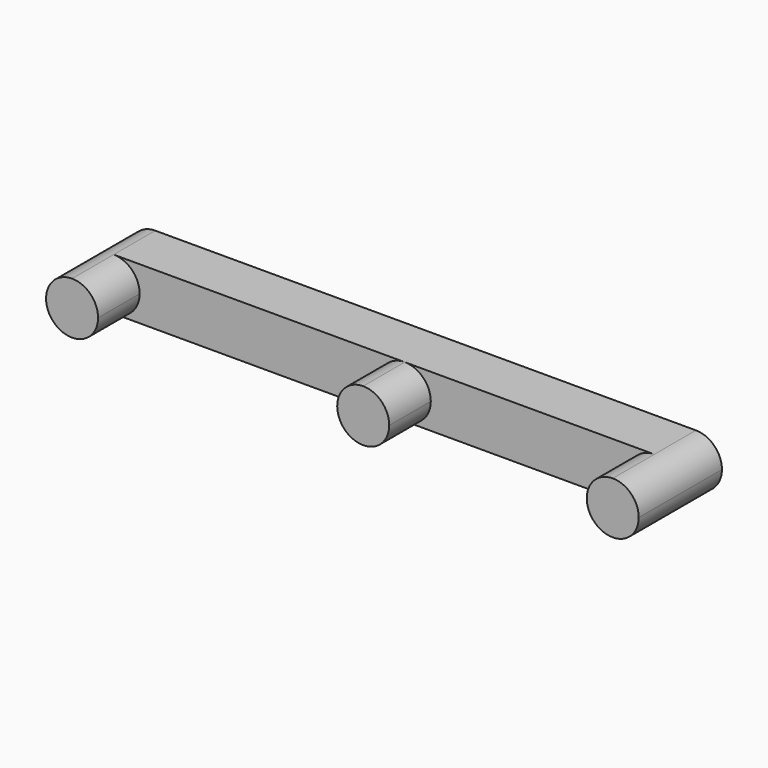
from build123d import *

# Parameters (mm, degrees)
F1_DEPTH = 10
F2_DEPTH = 5


with BuildPart() as f1:
    # F0 (on Front) → F1 (new body)
    with BuildSketch(Plane.XZ):
        with BuildLine():
            ThreePointArc((0, -2.5), (1.767767, -1.767767), (2.5, 0))
            ThreePointArc((2.5, 0), (1.767767, 1.767767), (0, 2.5))
            Line((0, 2.5), (0, -2.5))
        make_face()
        with BuildLine():
            ThreePointArc((30.5, 0), (29.767767, 1.767767), (28, 2.5))
            ThreePointArc((28, 2.5), (25.5, 0), (28, -2.5))
            ThreePointArc((28, -2.5), (29.767767, -1.767767), (30.5, 0))
        make_face()
        with BuildLine():
            ThreePointArc((54.5, 0), (53.767767, 1.767767), (52, 2.5))
            Line((52, 2.5), (52, -2.5))
            ThreePointArc((52, -2.5), (53.767767, -1.767767), (54.5, 0))
        make_face()
        with BuildLine():
            Line((52, -2.5), (52, 2.5))
            ThreePointArc((52, 2.5), (49.5, 0), (52, -2.5))
        make_face()
        with BuildLine():
            Line((0, -2.5), (0, 2.5))
            ThreePointArc((0, 2.5), (-2.5, 0), (0, -2.5))
        make_face()
    extrude(amount=F1_DEPTH)

    # F0 (on Front) → F2 (join)
    with BuildSketch(Plane.XZ):
        with BuildLine():
            ThreePointArc((0, 2.5), (1.767767, 1.767767), (2.5, 0))
            ThreePointArc((2.5, 0), (1.767767, -1.767767), (0, -2.5))
            Line((0, -2.5), (28, -2.5))
            ThreePointArc((28, -2.5), (25.5, 0), (28, 2.5))
            Line((28, 2.5), (0, 2.5))
        make_face()
        with BuildLine():
            Line((0, -2.5), (0, 2.5))
            ThreePointArc((0, 2.5), (-2.5, 0), (0, -2.5))
        make_face()
        with BuildLine():
            Line((52, 2.5), (28, 2.5))
            ThreePointArc((28, 2.5), (29.767767, 1.767767), (30.5, 0))
            ThreePointArc((30.5, 0), (29.767767, -1.767767), (28, -2.5))
            Line((28, -2.5), (52, -2.5))
            ThreePointArc((52, -2.5), (49.5, 0), (52, 2.5))
        make_face()
        with BuildLine():
            ThreePointArc((54.5, 0), (53.767767, 1.767767), (52, 2.5))
            Line((52, 2.5), (52, -2.5))
            ThreePointArc((52, -2.5), (53.767767, -1.767767), (54.5, 0))
        make_face()
    extrude(amount=F2_DEPTH)


solid = f1.part
